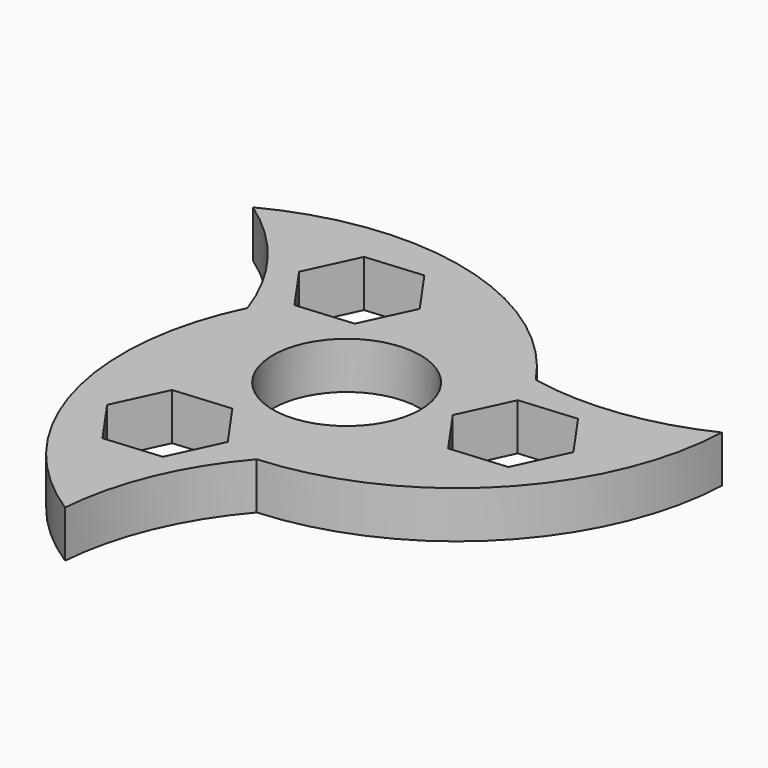
from build123d import *

# Parameters (mm, degrees)
F0_R     = 9.45
F1_DEPTH = 6


with BuildPart() as f1:
    # F0 (on Top) → F1 (new body)
    with BuildSketch(Plane.XY):
        with BuildLine():
            ThreePointArc((36.08242, 14.982878), (25.482054, 11.871198), (14.440308, 12.232005))
            ThreePointArc((14.440308, 12.232005), (-6.085178, 26.683844), (-31.016763, 23.756854))
            ThreePointArc((-31.016763, 23.756854), (-23.021786, 16.132507), (-17.813381, 6.389671))
            ThreePointArc((-17.813381, 6.389671), (-20.066298, -18.611841), (-5.065657, -38.739732))
            ThreePointArc((-5.065657, -38.739732), (-2.460268, -28.003705), (3.373073, -18.621676))
            ThreePointArc((3.373073, -18.621676), (26.151476, -8.072004), (36.08242, 14.982878))
        make_face()
        Polygon((-5.388383, -11.555424), (-1.229954, -17.494277), (-4.293936, -24.065008), (-11.516348, -24.696887), (-15.674777, -18.758035), (-12.610794, -12.187303), align=None, mode=Mode.SUBTRACT)
        Circle(F0_R, mode=Mode.SUBTRACT)
        Polygon((-7.3131, 10.444189), (-14.535511, 9.812309), (-18.69394, 15.751162), (-15.629958, 22.321893), (-8.407546, 22.953772), (-4.249117, 17.01492), align=None, mode=Mode.SUBTRACT)
        Polygon((16.859912, -4.827617), (12.701482, 1.111236), (15.765465, 7.681967), (22.987876, 8.313846), (27.146306, 2.374994), (24.082323, -4.195737), align=None, mode=Mode.SUBTRACT)
    extrude(amount=F1_DEPTH)


solid = f1.part
